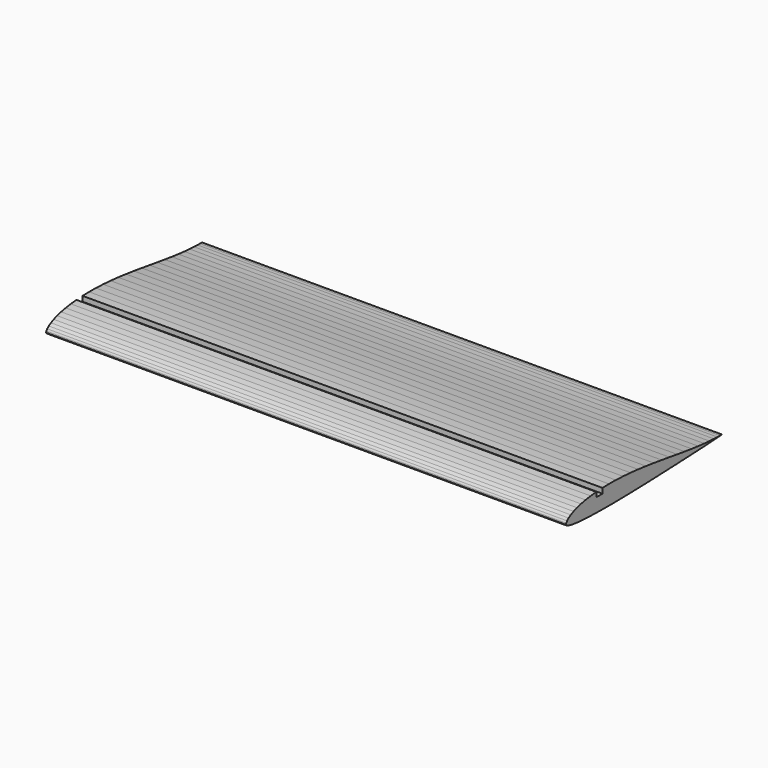
from build123d import *

# Parameters (mm, degrees)
F1_DEPTH = 800
F3_DEPTH = 800.001


with BuildPart() as f1:
    # F0 (on Right) → F1 (new body)
    with BuildSketch(Plane.YZ):
        Polygon((149.0115, -6.654), (149.9775, -6.597), (149.0055, -6.594), (146.0985, -6.576), (141.2805, -6.489), (134.5875, -6.273), (126.1005, -5.829), (115.9785, -5.049), (104.4615, -3.888), (91.8015, -2.379), (78.2055, -0.573), (63.8985, 1.467), (49.1085, 3.663), (34.0425, 5.892), (18.8655, 8.034), (3.7185, 9.99), (-11.2695, 11.682), (-25.9845, 13.041), (-40.2945, 14.022), (-54.1155, 14.592), (-67.3425, 14.742), (-79.8735, 14.472), (-91.6035, 13.8), (-102.4425, 12.738), (-112.3035, 11.307), (-121.1115, 9.534), (-128.8095, 7.467), (-135.3555, 5.148), (-140.7165, 2.646), (-144.8685, 0.045), (-147.8055, -2.553), (-149.5215, -4.998), (-149.9775, -7.017), (-148.7505, -8.547), (-145.6545, -9.849), (-140.9385, -11.01), (-134.6535, -12.009), (-126.8685, -12.843), (-117.6675, -13.515), (-107.1495, -14.04), (-95.4405, -14.424), (-82.6785, -14.661), (-68.9985, -14.742), (-54.5355, -14.67), (-39.4305, -14.466), (-23.8575, -14.148), (-7.9875, -13.74), (8.0025, -13.254), (23.9265, -12.714), (39.6045, -12.135), (54.8535, -11.532), (69.4965, -10.926), (83.3535, -10.326), (96.2625, -9.744), (108.0675, -9.192), (118.6185, -8.67), (127.7865, -8.178), (135.4665, -7.698), (141.6105, -7.233), (146.1675, -6.861), align=None)
    extrude(amount=F1_DEPTH)

    # F2 (on face) → F3 (cut, through all)
    with BuildSketch(Plane.YZ.offset(800)):
        Polygon((-79.8735, 14.472), (-91.6035, 13.8), (-91.6035, 6.564629), (-79.8735, 6.564629), align=None)
    extrude(amount=-F3_DEPTH, mode=Mode.SUBTRACT)


solid = f1.part
